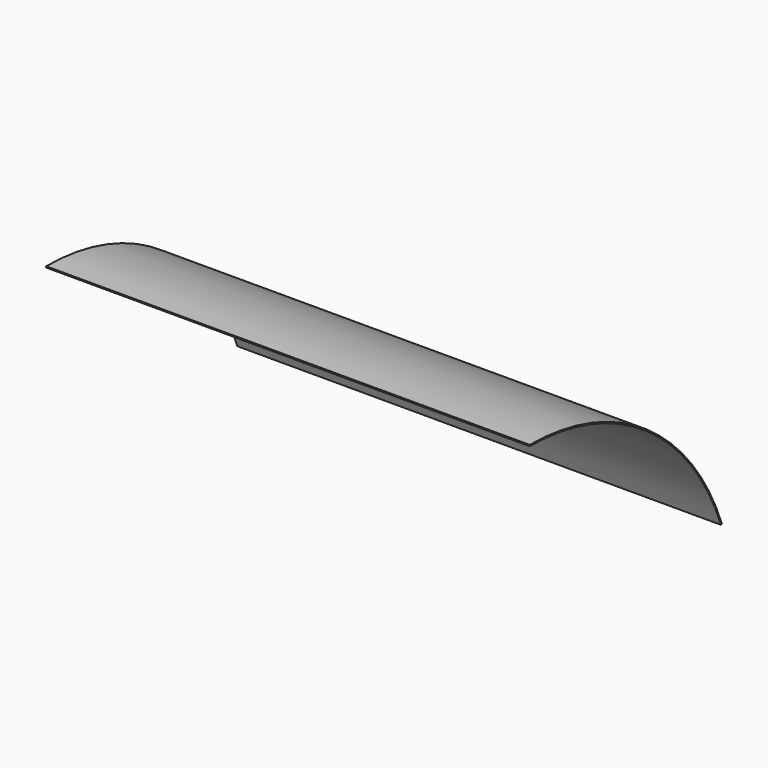
from build123d import *

# Parameters (mm, degrees)
F1_DEPTH = 610


with BuildPart() as f1:
    # F0 (on Right) → F1 (new body, symmetric)
    with BuildSketch(Plane.YZ):
        with BuildLine():
            ThreePointArc((-435.844275, 218.399492), (-68.279864, 103.060601), (167.491771, -201.600508))
            Line((167.491771, -201.600508), (170.30518, -200.559006))
            ThreePointArc((170.30518, -200.559006), (-66.565879, 105.522766), (-435.844275, 221.399492))
            Line((-435.844275, 221.399492), (-435.844275, 218.399492))
        make_face()
    extrude(amount=F1_DEPTH, both=True)


solid = f1.part
